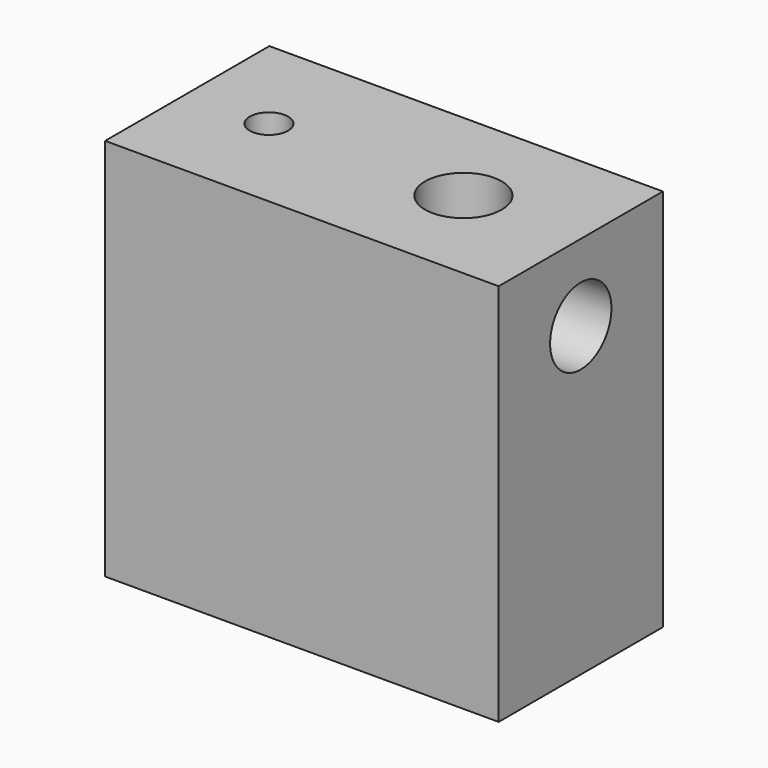
from build123d import *

# Parameters (mm, degrees)
F0_W     = 102.601886
F0_H     = 53.511788
F1_DEPTH = 100
F2_R     = 5
F3_DEPTH = 50
F4_R     = 10
F5_DEPTH = 102.602886
F6_R     = 10
F7_DEPTH = 30


with BuildPart() as f1:
    # F0 (on Top) → F1 (new body)
    with BuildSketch(Plane.XY):
        Rectangle(F0_W, F0_H)
    extrude(amount=F1_DEPTH)

    # F2 (on face) → F3 (cut)
    with BuildSketch(Plane.XY.offset(100)):
        with Locations((-30, 0)):
            Circle(F2_R)
    extrude(amount=-F3_DEPTH, mode=Mode.SUBTRACT)

    # F4 (on face) → F5 (cut, through all)
    with BuildSketch(Plane(origin=(-51.300943, 0, 0), x_dir=(0, -1, 0), z_dir=(-1, 0, 0))):
        with Locations((0, 80)):
            Circle(F4_R)
    extrude(amount=-F5_DEPTH, mode=Mode.SUBTRACT)

    # F6 (on face) → F7 (cut)
    with BuildSketch(Plane.XY.offset(100)):
        with Locations((20.707027, 0)):
            Circle(F6_R)
    extrude(amount=-F7_DEPTH, mode=Mode.SUBTRACT)


solid = f1.part
